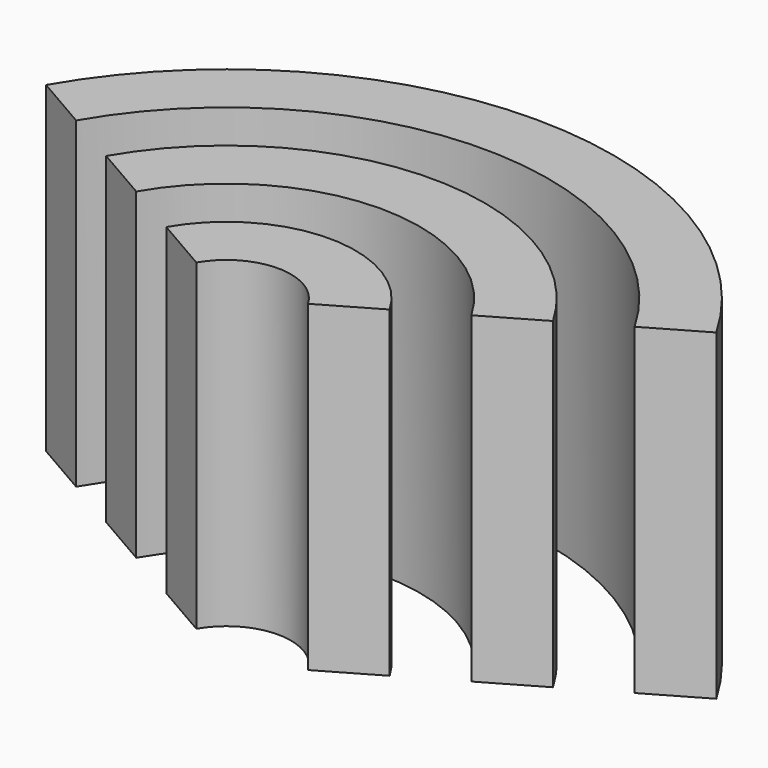
from build123d import *

# Parameters (mm, degrees)
CYLINDER053_W               = 6
CYLINDER053_H               = 10
CYLINDER053_ANGLE           = 120
CYLINDER053_PLACEMENT_ANGLE = 30
CYLINDER043_W               = 8
CYLINDER043_H               = 10
CYLINDER043_ANGLE           = 120
CYLINDER043_PLACEMENT_ANGLE = 30
CYLINDER046_W               = 2
CYLINDER046_H               = 10
CYLINDER046_ANGLE           = 120
CYLINDER046_PLACEMENT_ANGLE = 30
CYLINDER044_W               = 4
CYLINDER044_H               = 10
CYLINDER044_ANGLE           = 120
CYLINDER044_PLACEMENT_ANGLE = 30
CYLINDER047_W               = 10
CYLINDER047_H               = 10
CYLINDER047_ANGLE           = 120
CYLINDER047_PLACEMENT_ANGLE = 30
CYLINDER045_W               = 12
CYLINDER045_H               = 10
CYLINDER045_ANGLE           = 120
CYLINDER045_PLACEMENT_ANGLE = 30


with BuildPart() as cilindro028:
    # Cylinder053 → Cylinder053 (revolve)
    with BuildSketch(Plane.XZ):
        with Locations((3, 5)):
            Rectangle(CYLINDER053_W, CYLINDER053_H)
    revolve(axis=Axis((0, 0, 0), (0, 0, 1)), revolution_arc=CYLINDER053_ANGLE)


with BuildPart() as cilindro028_1:
    # Cylinder053 placement: moved
    add(cilindro028.part.moved(Location((-30.75, -30, 0))).rotate(Axis((-30.75, -30, 0), (0, 0, 1)), CYLINDER053_PLACEMENT_ANGLE))


with BuildPart() as obj1:
    # Cylinder043 → Cylinder043 (revolve)
    with BuildSketch(Plane.XZ):
        with Locations((4, 5)):
            Rectangle(CYLINDER043_W, CYLINDER043_H)
    revolve(axis=Axis((0, 0, 0), (0, 0, 1)), revolution_arc=CYLINDER043_ANGLE)


with BuildPart() as obj1_1:
    # Cylinder043 placement: moved
    add(obj1.part.moved(Location((-30.75, -30, 0))).rotate(Axis((-30.75, -30, 0), (0, 0, 1)), CYLINDER043_PLACEMENT_ANGLE))

    # Cut032: cut Cilindro028
    add(cilindro028_1.part, mode=Mode.SUBTRACT)


with BuildPart() as cilindro021:
    # Cylinder046 → Cylinder046 (revolve)
    with BuildSketch(Plane.XZ):
        with Locations((1, 5)):
            Rectangle(CYLINDER046_W, CYLINDER046_H)
    revolve(axis=Axis((0, 0, 0), (0, 0, 1)), revolution_arc=CYLINDER046_ANGLE)


with BuildPart() as cilindro021_1:
    # Cylinder046 placement: moved
    add(cilindro021.part.moved(Location((-30.75, -30, 0))).rotate(Axis((-30.75, -30, 0), (0, 0, 1)), CYLINDER046_PLACEMENT_ANGLE))


with BuildPart() as obj2:
    # Cylinder044 → Cylinder044 (revolve)
    with BuildSketch(Plane.XZ):
        with Locations((2, 5)):
            Rectangle(CYLINDER044_W, CYLINDER044_H)
    revolve(axis=Axis((0, 0, 0), (0, 0, 1)), revolution_arc=CYLINDER044_ANGLE)


with BuildPart() as obj2_1:
    # Cylinder044 placement: moved
    add(obj2.part.moved(Location((-30.75, -30, 0))).rotate(Axis((-30.75, -30, 0), (0, 0, 1)), CYLINDER044_PLACEMENT_ANGLE))

    # Cut034: cut Cilindro021
    add(cilindro021_1.part, mode=Mode.SUBTRACT)


with BuildPart() as cilindro022:
    # Cylinder047 → Cylinder047 (revolve)
    with BuildSketch(Plane.XZ):
        with Locations((5, 5)):
            Rectangle(CYLINDER047_W, CYLINDER047_H)
    revolve(axis=Axis((0, 0, 0), (0, 0, 1)), revolution_arc=CYLINDER047_ANGLE)


with BuildPart() as cilindro022_1:
    # Cylinder047 placement: moved
    add(cilindro022.part.moved(Location((-30.75, -30, 0))).rotate(Axis((-30.75, -30, 0), (0, 0, 1)), CYLINDER047_PLACEMENT_ANGLE))


with BuildPart() as fusion015:
    # Cylinder045 → Cylinder045 (revolve)
    with BuildSketch(Plane.XZ):
        with Locations((6, 5)):
            Rectangle(CYLINDER045_W, CYLINDER045_H)
    revolve(axis=Axis((0, 0, 0), (0, 0, 1)), revolution_arc=CYLINDER045_ANGLE)


with BuildPart() as fusion015_1:
    # Cylinder045 placement: moved
    add(fusion015.part.moved(Location((-30.75, -30, 0))).rotate(Axis((-30.75, -30, 0), (0, 0, 1)), CYLINDER045_PLACEMENT_ANGLE))

    # Cut033: cut Cilindro022
    add(cilindro022_1.part, mode=Mode.SUBTRACT)

    # Fusion015: union obj1, obj2
    add(obj1_1.part)
    add(obj2_1.part)


with BuildPart() as fusion015_2:
    # Fusion015 placement: moved
    add(fusion015_1.part.moved(Location((0.6, 0, -6))))


solid = fusion015_2.part
